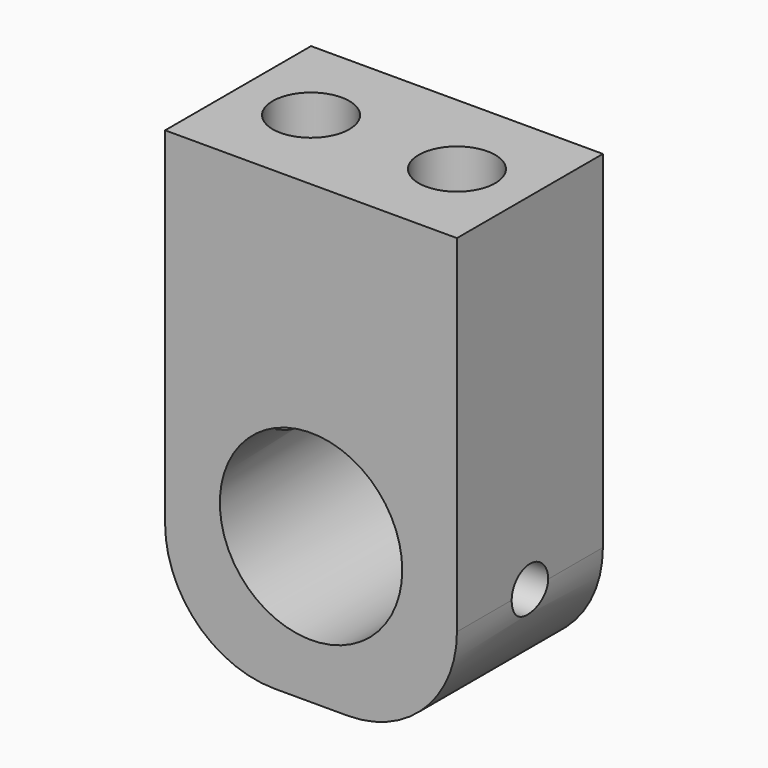
from build123d import *

# Parameters (mm, degrees)
F0_R     = 5
F1_DEPTH = 10
F3_D     = 4.2
F3_DEPTH = 14.4
F3_TIP   = 1.2618073
F5_D     = 2.5
F5_DEPTH = 8
F5_START = 0.1316528
F5_TIP   = 0.7510757738


with BuildPart() as f1:
    # F0 (on Front) → F1 (new body)
    with BuildSketch(Plane.XZ):
        with BuildLine():
            Line((8, 12.5), (-8, 12.5))
            Line((-8, 12.5), (-8, -6.5))
            ThreePointArc((-8, -6.5), (-6.2426406871, -10.7426406871), (-2, -12.5))
            Line((-2, -12.5), (2, -12.5))
            ThreePointArc((2, -12.5), (6.2426406871, -10.7426406871), (8, -6.5))
            Line((8, -6.5), (8, 12.5))
        make_face()
        with Locations((0, -4.5)):
            Circle(F0_R, mode=Mode.SUBTRACT)
    extrude(amount=-F1_DEPTH)

    # F3
    with Locations(Plane.XY.offset(12.5)):
        with Locations((-4, 5), (4, 5)):
            Hole(F3_D / 2, depth=F3_DEPTH)
            with Locations((0, 0, -(F3_DEPTH + F3_TIP / 2))):  # 118° drill point
                Cone(0, F3_D / 2, F3_TIP, mode=Mode.SUBTRACT)

    # F5
    # its depths count from where the whole tool has entered the part; down to there all is cleared
    with Locations(Plane.YZ.offset(8).offset(-F5_START)):
        with Locations((5, -6.5)):
            Hole(F5_D / 2, depth=F5_DEPTH)
            with Locations((0, 0, -(F5_DEPTH + F5_TIP / 2))):  # 118° drill point
                Cone(0, F5_D / 2, F5_TIP, mode=Mode.SUBTRACT)


solid = f1.part
